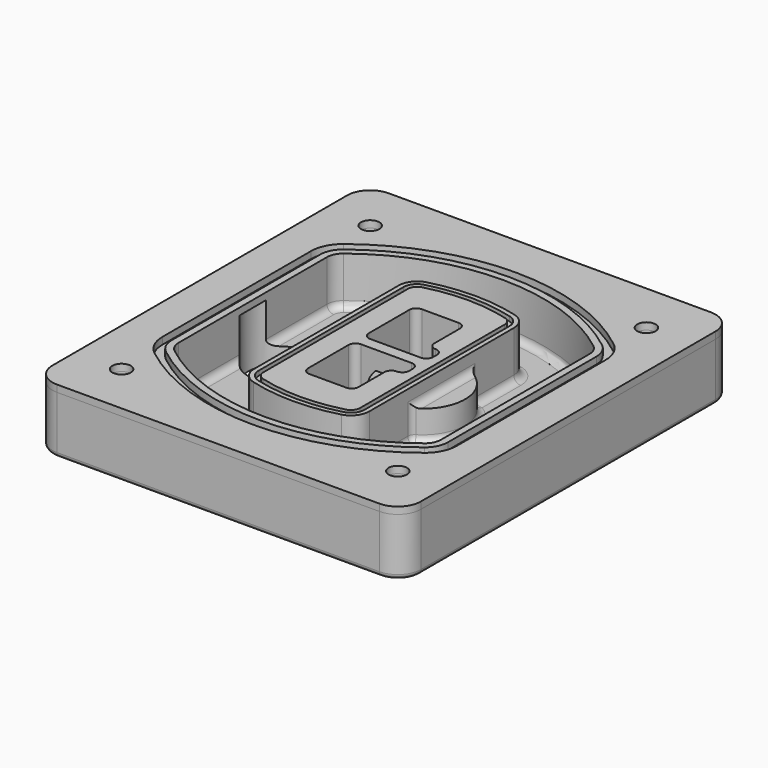
from build123d import *

# Parameters (mm, degrees)
F0_R      = 4
F1_DEPTH  = 25
F2_DEPTH  = 3
F3_DEPTH  = 18
F5_DEPTH  = 21
F6_DEPTH  = 2
F8_DEPTH  = 20
F9_DEPTH  = 16
F10_DEPTH = 25
F7_R      = 6
F7_R_2    = 4
F11_DEPTH = 6
F13_DEPTH = 9
F14_R     = 3
F15_R     = 2
F16_R     = 4
F16_R_2   = 6
F17_DEPTH = 3


with BuildPart() as f1:
    # F0 (on Top) → F1 (new body)
    with BuildSketch(Plane.XY):
        with BuildLine():
            ThreePointArc((-80, -80), (-77.0710678119, -87.0710678119), (-70, -90))
            Line((-70, -90), (70, -90))
            ThreePointArc((70, -90), (77.0710678119, -87.0710678119), (80, -80))
            Line((80, -80), (80, 80))
            ThreePointArc((80, 80), (77.0710678119, 87.0710678119), (70, 90))
            Line((70, 90), (-70, 90))
            ThreePointArc((-70, 90), (-77.0710678119, 87.0710678119), (-80, 80))
            Line((-80, 80), (-80, -80))
        make_face()
        with Locations((-60, -67.5)):
            Circle(F0_R, mode=Mode.SUBTRACT)
        with Locations((60, -67.5)):
            Circle(F0_R, mode=Mode.SUBTRACT)
        with Locations((-60, 67.5)):
            Circle(F0_R, mode=Mode.SUBTRACT)
        with BuildLine():
            ThreePointArc((-64, 40.2934422872), (-62.5820384798, 46.4328484224), (-58.6153846154, 51.3286200352))
            ThreePointArc((-58.6153846154, 51.3286200352), (0, 71.5), (58.6153846154, 51.3286200352))
            ThreePointArc((58.6153846154, 51.3286200352), (62.5820384798, 46.4328484224), (64, 40.2934422872))
            Line((64, 40.2934422872), (64, -40.2934422872))
            ThreePointArc((64, -40.2934422872), (62.5820384798, -46.4328484224), (58.6153846154, -51.3286200352))
            ThreePointArc((58.6153846154, -51.3286200352), (0, -71.5), (-58.6153846154, -51.3286200352))
            ThreePointArc((-58.6153846154, -51.3286200352), (-62.5820384798, -46.4328484224), (-64, -40.2934422872))
            Line((-64, -40.2934422872), (-64, 40.2934422872))
        make_face(mode=Mode.SUBTRACT)
        with Locations((60, 67.5)):
            Circle(F0_R, mode=Mode.SUBTRACT)
        with BuildLine():
            ThreePointArc((58.6153846154, 51.3286200352), (0, 71.5), (-58.6153846154, 51.3286200352))
            ThreePointArc((-58.6153846154, 51.3286200352), (-62.5820384798, 46.4328484224), (-64, 40.2934422872))
            Line((-64, 40.2934422872), (-64, -40.2934422872))
            ThreePointArc((-64, -40.2934422872), (-62.5820384798, -46.4328484224), (-58.6153846154, -51.3286200352))
            ThreePointArc((-58.6153846154, -51.3286200352), (0, -71.5), (58.6153846154, -51.3286200352))
            ThreePointArc((58.6153846154, -51.3286200352), (62.5820384798, -46.4328484224), (64, -40.2934422872))
            Line((64, -40.2934422872), (64, 40.2934422872))
            ThreePointArc((64, 40.2934422872), (62.5820384798, 46.4328484224), (58.6153846154, 51.3286200352))
        make_face()
        with BuildLine():
            Line((-60, -40.2934422872), (-60, 40.2934422872))
            ThreePointArc((-60, 40.2934422872), (-58.9871703427, 44.6787323838), (-56.1538461538, 48.1757121072))
            ThreePointArc((-56.1538461538, 48.1757121072), (0, 67.5), (56.1538461538, 48.1757121072))
            ThreePointArc((56.1538461538, 48.1757121072), (58.9871703427, 44.6787323838), (60, 40.2934422872))
            Line((60, 40.2934422872), (60, -40.2934422872))
            ThreePointArc((60, -40.2934422872), (58.9871703427, -44.6787323838), (56.1538461538, -48.1757121072))
            ThreePointArc((56.1538461538, -48.1757121072), (0, -67.5), (-56.1538461538, -48.1757121072))
            ThreePointArc((-56.1538461538, -48.1757121072), (-58.9871703427, -44.6787323838), (-60, -40.2934422872))
        make_face(mode=Mode.SUBTRACT)
        with BuildLine():
            ThreePointArc((-56.1538461538, 48.1757121072), (-58.9871703427, 44.6787323838), (-60, 40.2934422872))
            Line((-60, 40.2934422872), (-60, -40.2934422872))
            ThreePointArc((-60, -40.2934422872), (-58.9871703427, -44.6787323838), (-56.1538461538, -48.1757121072))
            ThreePointArc((-56.1538461538, -48.1757121072), (0, -67.5), (56.1538461538, -48.1757121072))
            ThreePointArc((56.1538461538, -48.1757121072), (58.9871703427, -44.6787323838), (60, -40.2934422872))
            Line((60, -40.2934422872), (60, 40.2934422872))
            ThreePointArc((60, 40.2934422872), (58.9871703427, 44.6787323838), (56.1538461538, 48.1757121072))
            ThreePointArc((56.1538461538, 48.1757121072), (0, 67.5), (-56.1538461538, 48.1757121072))
        make_face()
        with BuildLine():
            ThreePointArc((54.3076923077, 45.8110311612), (56.2910192399, 43.3631453548), (57, 40.2934422872))
            Line((57, 40.2934422872), (57, -40.2934422872))
            ThreePointArc((57, -40.2934422872), (56.2910192399, -43.3631453548), (54.3076923077, -45.8110311612))
            ThreePointArc((54.3076923077, -45.8110311612), (0, -64.5), (-54.3076923077, -45.8110311612))
            ThreePointArc((-54.3076923077, -45.8110311612), (-56.2910192399, -43.3631453548), (-57, -40.2934422872))
            Line((-57, -40.2934422872), (-57, 40.2934422872))
            ThreePointArc((-57, 40.2934422872), (-56.2910192399, 43.3631453548), (-54.3076923077, 45.8110311612))
            ThreePointArc((-54.3076923077, 45.8110311612), (0, 64.5), (54.3076923077, 45.8110311612))
        make_face(mode=Mode.SUBTRACT)
        with BuildLine():
            Line((57, -40.2934422872), (57, 40.2934422872))
            ThreePointArc((57, 40.2934422872), (56.2910192399, 43.3631453548), (54.3076923077, 45.8110311612))
            ThreePointArc((54.3076923077, 45.8110311612), (0, 64.5), (-54.3076923077, 45.8110311612))
            ThreePointArc((-54.3076923077, 45.8110311612), (-56.2910192399, 43.3631453548), (-57, 40.2934422872))
            Line((-57, 40.2934422872), (-57, -40.2934422872))
            ThreePointArc((-57, -40.2934422872), (-56.2910192399, -43.3631453548), (-54.3076923077, -45.8110311612))
            ThreePointArc((-54.3076923077, -45.8110311612), (0, -64.5), (54.3076923077, -45.8110311612))
            ThreePointArc((54.3076923077, -45.8110311612), (56.2910192399, -43.3631453548), (57, -40.2934422872))
        make_face()
    extrude(amount=-F1_DEPTH)

    # F0 (on Top) → F2 (join)
    with BuildSketch(Plane.XY):
        with BuildLine():
            ThreePointArc((-56.1538461538, 48.1757121072), (-58.9871703427, 44.6787323838), (-60, 40.2934422872))
            Line((-60, 40.2934422872), (-60, -40.2934422872))
            ThreePointArc((-60, -40.2934422872), (-58.9871703427, -44.6787323838), (-56.1538461538, -48.1757121072))
            ThreePointArc((-56.1538461538, -48.1757121072), (0, -67.5), (56.1538461538, -48.1757121072))
            ThreePointArc((56.1538461538, -48.1757121072), (58.9871703427, -44.6787323838), (60, -40.2934422872))
            Line((60, -40.2934422872), (60, 40.2934422872))
            ThreePointArc((60, 40.2934422872), (58.9871703427, 44.6787323838), (56.1538461538, 48.1757121072))
            ThreePointArc((56.1538461538, 48.1757121072), (0, 67.5), (-56.1538461538, 48.1757121072))
        make_face()
        with BuildLine():
            ThreePointArc((54.3076923077, 45.8110311612), (56.2910192399, 43.3631453548), (57, 40.2934422872))
            Line((57, 40.2934422872), (57, -40.2934422872))
            ThreePointArc((57, -40.2934422872), (56.2910192399, -43.3631453548), (54.3076923077, -45.8110311612))
            ThreePointArc((54.3076923077, -45.8110311612), (0, -64.5), (-54.3076923077, -45.8110311612))
            ThreePointArc((-54.3076923077, -45.8110311612), (-56.2910192399, -43.3631453548), (-57, -40.2934422872))
            Line((-57, -40.2934422872), (-57, 40.2934422872))
            ThreePointArc((-57, 40.2934422872), (-56.2910192399, 43.3631453548), (-54.3076923077, 45.8110311612))
            ThreePointArc((-54.3076923077, 45.8110311612), (0, 64.5), (54.3076923077, 45.8110311612))
        make_face(mode=Mode.SUBTRACT)
    extrude(amount=F2_DEPTH)

    # F0 (on Top) → F3 (cut)
    with BuildSketch(Plane.XY):
        with BuildLine():
            Line((57, -40.2934422872), (57, 40.2934422872))
            ThreePointArc((57, 40.2934422872), (56.2910192399, 43.3631453548), (54.3076923077, 45.8110311612))
            ThreePointArc((54.3076923077, 45.8110311612), (0, 64.5), (-54.3076923077, 45.8110311612))
            ThreePointArc((-54.3076923077, 45.8110311612), (-56.2910192399, 43.3631453548), (-57, 40.2934422872))
            Line((-57, 40.2934422872), (-57, -40.2934422872))
            ThreePointArc((-57, -40.2934422872), (-56.2910192399, -43.3631453548), (-54.3076923077, -45.8110311612))
            ThreePointArc((-54.3076923077, -45.8110311612), (0, -64.5), (54.3076923077, -45.8110311612))
            ThreePointArc((54.3076923077, -45.8110311612), (56.2910192399, -43.3631453548), (57, -40.2934422872))
        make_face()
    extrude(amount=-F3_DEPTH, mode=Mode.SUBTRACT)

    # F4 (on face) → F5 (join, through all)
    with BuildSketch(Plane.XY.offset(3)):
        with BuildLine():
            ThreePointArc((-25, -39.2465276821), (-23.3511545998, -44.1109737193), (-19.0842911877, -46.9702398883))
            ThreePointArc((-19.0842911877, -46.9702398883), (0, -49.5), (19.0842911877, -46.9702398883))
            ThreePointArc((19.0842911877, -46.9702398883), (23.3511545998, -44.1109737193), (25, -39.2465276821))
            Line((25, -39.2465276821), (25, 39.2465276821))
            ThreePointArc((25, 39.2465276821), (23.3511545998, 44.1109737193), (19.0842911877, 46.9702398883))
            ThreePointArc((19.0842911877, 46.9702398883), (0, 49.5), (-19.0842911877, 46.9702398883))
            ThreePointArc((-19.0842911877, 46.9702398883), (-23.3511545998, 44.1109737193), (-25, 39.2465276821))
            Line((-25, 39.2465276821), (-25, -39.2465276821))
        make_face()
        with BuildLine():
            ThreePointArc((18.5632183908, 45.0393118368), (21.7633659499, 42.89486221), (23, 39.2465276821))
            Line((23, 39.2465276821), (23, -39.2465276821))
            ThreePointArc((23, -39.2465276821), (21.7633659499, -42.89486221), (18.5632183908, -45.0393118368))
            ThreePointArc((18.5632183908, -45.0393118368), (0, -47.5), (-18.5632183908, -45.0393118368))
            ThreePointArc((-18.5632183908, -45.0393118368), (-21.7633659499, -42.89486221), (-23, -39.2465276821))
            Line((-23, -39.2465276821), (-23, 39.2465276821))
            ThreePointArc((-23, 39.2465276821), (-21.7633659499, 42.89486221), (-18.5632183908, 45.0393118368))
            ThreePointArc((-18.5632183908, 45.0393118368), (0, 47.5), (18.5632183908, 45.0393118368))
        make_face(mode=Mode.SUBTRACT)
        with BuildLine():
            Line((23, -39.2465276821), (23, 39.2465276821))
            ThreePointArc((23, 39.2465276821), (21.7633659499, 42.89486221), (18.5632183908, 45.0393118368))
            ThreePointArc((18.5632183908, 45.0393118368), (0, 47.5), (-18.5632183908, 45.0393118368))
            ThreePointArc((-18.5632183908, 45.0393118368), (-21.7633659499, 42.89486221), (-23, 39.2465276821))
            Line((-23, 39.2465276821), (-23, -39.2465276821))
            ThreePointArc((-23, -39.2465276821), (-21.7633659499, -42.89486221), (-18.5632183908, -45.0393118368))
            ThreePointArc((-18.5632183908, -45.0393118368), (0, -47.5), (18.5632183908, -45.0393118368))
            ThreePointArc((18.5632183908, -45.0393118368), (21.7633659499, -42.89486221), (23, -39.2465276821))
        make_face()
        with BuildLine():
            ThreePointArc((18.0421455939, 43.1083837852), (20.1755772999, 41.6787507007), (21, 39.2465276821))
            Line((21, 39.2465276821), (21, -39.2465276821))
            ThreePointArc((21, -39.2465276821), (20.1755772999, -41.6787507007), (18.0421455939, -43.1083837852))
            ThreePointArc((18.0421455939, -43.1083837852), (0, -45.5), (-18.0421455939, -43.1083837852))
            ThreePointArc((-18.0421455939, -43.1083837852), (-20.1755772999, -41.6787507007), (-21, -39.2465276821))
            Line((-21, -39.2465276821), (-21, 39.2465276821))
            ThreePointArc((-21, 39.2465276821), (-20.1755772999, 41.6787507007), (-18.0421455939, 43.1083837852))
            ThreePointArc((-18.0421455939, 43.1083837852), (0, 45.5), (18.0421455939, 43.1083837852))
        make_face(mode=Mode.SUBTRACT)
        with BuildLine():
            Line((21, -39.2465276821), (21, 39.2465276821))
            ThreePointArc((21, 39.2465276821), (20.1755772999, 41.6787507007), (18.0421455939, 43.1083837852))
            ThreePointArc((18.0421455939, 43.1083837852), (0, 45.5), (-18.0421455939, 43.1083837852))
            ThreePointArc((-18.0421455939, 43.1083837852), (-20.1755772999, 41.6787507007), (-21, 39.2465276821))
            Line((-21, 39.2465276821), (-21, -39.2465276821))
            ThreePointArc((-21, -39.2465276821), (-20.1755772999, -41.6787507007), (-18.0421455939, -43.1083837852))
            ThreePointArc((-18.0421455939, -43.1083837852), (0, -45.5), (18.0421455939, -43.1083837852))
            ThreePointArc((18.0421455939, -43.1083837852), (20.1755772999, -41.6787507007), (21, -39.2465276821))
        make_face()
        with BuildLine():
            Line((-8, -2.5), (14, -2.5))
            ThreePointArc((14, -2.5), (16.1213203436, -3.3786796564), (17, -5.5))
            Line((17, -5.5), (17, -7.5))
            ThreePointArc((17, -7.5), (16.1213203436, -9.6213203436), (14, -10.5))
            ThreePointArc((14, -10.5), (11.8786796564, -11.3786796564), (11, -13.5))
            Line((11, -13.5), (11, -27.5))
            ThreePointArc((11, -27.5), (10.1213203436, -29.6213203436), (8, -30.5))
            Line((8, -30.5), (-8, -30.5))
            ThreePointArc((-8, -30.5), (-10.1213203436, -29.6213203436), (-11, -27.5))
            Line((-11, -27.5), (-11, -5.5))
            ThreePointArc((-11, -5.5), (-10.1213203436, -3.3786796564), (-8, -2.5))
        make_face(mode=Mode.SUBTRACT)
        with BuildLine():
            ThreePointArc((-8, 2.5), (-10.1213203436, 3.3786796564), (-11, 5.5))
            Line((-11, 5.5), (-11, 27.5))
            ThreePointArc((-11, 27.5), (-10.1213203436, 29.6213203436), (-8, 30.5))
            Line((-8, 30.5), (8, 30.5))
            ThreePointArc((8, 30.5), (10.1213203436, 29.6213203436), (11, 27.5))
            Line((11, 27.5), (11, 13.5))
            ThreePointArc((11, 13.5), (11.8786796564, 11.3786796564), (14, 10.5))
            ThreePointArc((14, 10.5), (16.1213203436, 9.6213203436), (17, 7.5))
            Line((17, 7.5), (17, 5.5))
            ThreePointArc((17, 5.5), (16.1213203436, 3.3786796564), (14, 2.5))
            Line((14, 2.5), (-8, 2.5))
        make_face(mode=Mode.SUBTRACT)
    extrude(amount=-F5_DEPTH)

    # F4 (on face) → F6 (cut)
    with BuildSketch(Plane.XY.offset(3)):
        with BuildLine():
            Line((23, -39.2465276821), (23, 39.2465276821))
            ThreePointArc((23, 39.2465276821), (21.7633659499, 42.89486221), (18.5632183908, 45.0393118368))
            ThreePointArc((18.5632183908, 45.0393118368), (0, 47.5), (-18.5632183908, 45.0393118368))
            ThreePointArc((-18.5632183908, 45.0393118368), (-21.7633659499, 42.89486221), (-23, 39.2465276821))
            Line((-23, 39.2465276821), (-23, -39.2465276821))
            ThreePointArc((-23, -39.2465276821), (-21.7633659499, -42.89486221), (-18.5632183908, -45.0393118368))
            ThreePointArc((-18.5632183908, -45.0393118368), (0, -47.5), (18.5632183908, -45.0393118368))
            ThreePointArc((18.5632183908, -45.0393118368), (21.7633659499, -42.89486221), (23, -39.2465276821))
        make_face()
        with BuildLine():
            ThreePointArc((18.0421455939, 43.1083837852), (20.1755772999, 41.6787507007), (21, 39.2465276821))
            Line((21, 39.2465276821), (21, -39.2465276821))
            ThreePointArc((21, -39.2465276821), (20.1755772999, -41.6787507007), (18.0421455939, -43.1083837852))
            ThreePointArc((18.0421455939, -43.1083837852), (0, -45.5), (-18.0421455939, -43.1083837852))
            ThreePointArc((-18.0421455939, -43.1083837852), (-20.1755772999, -41.6787507007), (-21, -39.2465276821))
            Line((-21, -39.2465276821), (-21, 39.2465276821))
            ThreePointArc((-21, 39.2465276821), (-20.1755772999, 41.6787507007), (-18.0421455939, 43.1083837852))
            ThreePointArc((-18.0421455939, 43.1083837852), (0, 45.5), (18.0421455939, 43.1083837852))
        make_face(mode=Mode.SUBTRACT)
    extrude(amount=-F6_DEPTH, mode=Mode.SUBTRACT)

    # F7 (on face) → F8 (join)
    with BuildSketch(Plane(origin=(0, 0, -25), x_dir=(1, 0, 0), z_dir=(0, 0, -1))):
        with BuildLine():
            ThreePointArc((3.28842436, 0), (16.7567035675, 13.4682792075), (30.224982775, 0))
            Line((30.224982775, 0), (35.224982775, 0))
            ThreePointArc((35.224982775, 0), (16.7567035675, 18.4682792075), (-1.71157564, 0))
            Line((-1.71157564, 0), (3.28842436, 0))
        make_face()
        with BuildLine():
            Line((3.28842436, 0), (30.224982775, 0))
            ThreePointArc((30.224982775, 0), (16.7567035675, 13.4682792075), (3.28842436, 0))
        make_face()
        with BuildLine():
            ThreePointArc((3.28842436, 0), (16.7567035675, -13.4682792075), (30.224982775, 0))
            Line((30.224982775, 0), (3.28842436, 0))
        make_face()
        with BuildLine():
            Line((35.224982775, 0), (30.224982775, 0))
            ThreePointArc((30.224982775, 0), (16.7567035675, -13.4682792075), (3.28842436, 0))
            Line((3.28842436, 0), (-1.71157564, 0))
            ThreePointArc((-1.71157564, 0), (16.7567035675, -18.4682792075), (35.224982775, 0))
        make_face()
    extrude(amount=-F8_DEPTH)

    # F7 (on face) → F9 (cut)
    with BuildSketch(Plane(origin=(0, 0, -25), x_dir=(1, 0, 0), z_dir=(0, 0, -1))):
        with BuildLine():
            Line((3.28842436, 0), (30.224982775, 0))
            ThreePointArc((30.224982775, 0), (16.7567035675, 13.4682792075), (3.28842436, 0))
        make_face()
        with BuildLine():
            ThreePointArc((3.28842436, 0), (16.7567035675, -13.4682792075), (30.224982775, 0))
            Line((30.224982775, 0), (3.28842436, 0))
        make_face()
    extrude(amount=-F9_DEPTH, mode=Mode.SUBTRACT)

    # F7 (on face) → F10 (cut)
    with BuildSketch(Plane(origin=(0, 0, -25), x_dir=(1, 0, 0), z_dir=(0, 0, -1))):
        with BuildLine():
            Line((-59.0318229325, 0), (-32.0952645175, 0))
            ThreePointArc((-32.0952645175, 0), (-45.563543725, 13.4682792075), (-59.0318229325, 0))
        make_face()
        with BuildLine():
            ThreePointArc((-59.0318229325, 0), (-45.563543725, -13.4682792075), (-32.0952645175, 0))
            Line((-32.0952645175, 0), (-59.0318229325, 0))
        make_face()
    extrude(amount=-F10_DEPTH, mode=Mode.SUBTRACT)

    # F7 (on face) → F11 (cut)
    with BuildSketch(Plane(origin=(0, 0, -25), x_dir=(1, 0, 0), z_dir=(0, 0, -1))):
        with Locations((60, -67.5)):
            Circle(F7_R)
        with Locations((60, -67.5)):
            Circle(F7_R_2, mode=Mode.SUBTRACT)
        with Locations((60, -67.5)):
            Circle(F7_R)
        with Locations((60, -67.5)):
            Circle(F7_R_2, mode=Mode.SUBTRACT)
        with Locations((-60, -67.5)):
            Circle(F7_R)
        with Locations((-60, -67.5)):
            Circle(F7_R_2, mode=Mode.SUBTRACT)
        with Locations((-60, -67.5)):
            Circle(F7_R)
        with Locations((-60, -67.5)):
            Circle(F7_R_2, mode=Mode.SUBTRACT)
        with Locations((-60, 67.5)):
            Circle(F7_R)
        with Locations((-60, 67.5)):
            Circle(F7_R_2, mode=Mode.SUBTRACT)
        with Locations((-60, 67.5)):
            Circle(F7_R)
        with Locations((-60, 67.5)):
            Circle(F7_R_2, mode=Mode.SUBTRACT)
        with Locations((60, 67.5)):
            Circle(F7_R)
        with Locations((60, 67.5)):
            Circle(F7_R_2, mode=Mode.SUBTRACT)
        with Locations((60, 67.5)):
            Circle(F7_R)
        with Locations((60, 67.5)):
            Circle(F7_R_2, mode=Mode.SUBTRACT)
    extrude(amount=-F11_DEPTH, mode=Mode.SUBTRACT)

    # F12 (on face) → F13 (cut, through all)
    with BuildSketch(Plane(origin=(0, 0, -9), x_dir=(1, 0, 0), z_dir=(0, 0, -1))):
        with BuildLine():
            Line((11, 13.5), (11, 17.5481537753))
            ThreePointArc((11, 17.5481537753), (2.5696536419, 11.8239143813), (-1.5415842455, 2.5))
            Line((-1.5415842455, 2.5), (3.5224848595, 2.5))
            ThreePointArc((3.5224848595, 2.5), (6.1857188154, 8.3455872281), (11.2536447004, 12.2927168648))
            ThreePointArc((11.2536447004, 12.2927168648), (11.0640958889, 12.8831798879), (11, 13.5))
        make_face()
        with BuildLine():
            ThreePointArc((11.2536447004, -12.2927168648), (6.1857188154, -8.3455872281), (3.5224848595, -2.5))
            Line((3.5224848595, -2.5), (-1.5415842455, -2.5))
            ThreePointArc((-1.5415842455, -2.5), (2.5696536419, -11.8239143813), (11, -17.5481537753))
            Line((11, -17.5481537753), (11, -13.5))
            ThreePointArc((11, -13.5), (11.0640958889, -12.8831798879), (11.2536447004, -12.2927168648))
        make_face()
        with BuildLine():
            ThreePointArc((11.2536447004, 12.2927168648), (6.1857188154, 8.3455872281), (3.5224848595, 2.5))
            Line((3.5224848595, 2.5), (14, 2.5))
            ThreePointArc((14, 2.5), (16.1213203436, 3.3786796564), (17, 5.5))
            Line((17, 5.5), (17, 7.5))
            ThreePointArc((17, 7.5), (16.1213203436, 9.6213203436), (14, 10.5))
            ThreePointArc((14, 10.5), (12.3601599782, 10.9878446101), (11.2536447004, 12.2927168648))
        make_face()
        with BuildLine():
            Line((14, -2.5), (3.5224848595, -2.5))
            ThreePointArc((3.5224848595, -2.5), (6.1857188154, -8.3455872281), (11.2536447004, -12.2927168648))
            ThreePointArc((11.2536447004, -12.2927168648), (12.3601599782, -10.9878446101), (14, -10.5))
            ThreePointArc((14, -10.5), (16.1213203436, -9.6213203436), (17, -7.5))
            Line((17, -7.5), (17, -5.5))
            ThreePointArc((17, -5.5), (16.1213203436, -3.3786796564), (14, -2.5))
        make_face()
    extrude(amount=F13_DEPTH, mode=Mode.SUBTRACT)

    # F14
    f14_edges = [f1.edges().sort_by_distance(p)[0] for p in [
        (-57, -23.703476, -18),
        (-57, 23.703476, -18),
        (25, 0, -5),
        (25, 16.526506, -11.5),
        (25, -16.526506, -11.5),
        (25, -27.886517, -18),
        (35.224983, 0, -18),
    ]]
    fillet(f14_edges, radius=F14_R)

    # F15
    f15_edges = [f1.edges().sort_by_distance(p)[0] for p in [
        (0, -90, -25),
    ]]
    fillet(f15_edges, radius=F15_R)


with BuildPart() as f17:
    # F16 (on face) → F17 (new body, through all)
    with BuildSketch(Plane.XY):
        with BuildLine():
            Line((-33, 90), (-70, 90))
            ThreePointArc((-70, 90), (-77.0710678119, 87.0710678119), (-80, 80))
            Line((-80, 80), (-80, -80))
            ThreePointArc((-80, -80), (-77.0710678119, -87.0710678119), (-70, -90))
            Line((-70, -90), (-33, -90))
            Line((-33, -90), (33, -90))
            Line((33, -90), (70, -90))
            ThreePointArc((70, -90), (77.0710678119, -87.0710678119), (80, -80))
            Line((80, -80), (80, 80))
            ThreePointArc((80, 80), (77.0710678119, 87.0710678119), (70, 90))
            Line((70, 90), (33, 90))
            Line((33, 90), (-33, 90))
        make_face()
        with Locations((-60, -67.5)):
            Circle(F16_R, mode=Mode.SUBTRACT)
        with Locations((60, -67.5)):
            Circle(F16_R, mode=Mode.SUBTRACT)
        with Locations((-60, 67.5)):
            Circle(F16_R, mode=Mode.SUBTRACT)
        with BuildLine():
            ThreePointArc((-56.1538461538, 48.1757121072), (0, 67.5), (56.1538461538, 48.1757121072))
            ThreePointArc((56.1538461538, 48.1757121072), (58.9871703427, 44.6787323838), (60, 40.2934422872))
            Line((60, 40.2934422872), (60, -40.2934422872))
            ThreePointArc((60, -40.2934422872), (58.9871703427, -44.6787323838), (56.1538461538, -48.1757121072))
            ThreePointArc((56.1538461538, -48.1757121072), (0, -67.5), (-56.1538461538, -48.1757121072))
            ThreePointArc((-56.1538461538, -48.1757121072), (-58.9871703427, -44.6787323838), (-60, -40.2934422872))
            Line((-60, -40.2934422872), (-60, 40.2934422872))
            ThreePointArc((-60, 40.2934422872), (-58.9871703427, 44.6787323838), (-56.1538461538, 48.1757121072))
        make_face(mode=Mode.SUBTRACT)
        with Locations((60, 67.5)):
            Circle(F16_R, mode=Mode.SUBTRACT)
        with BuildLine():
            Line((-15, 108), (-33, 90))
            Line((-33, 90), (33, 90))
            Line((33, 90), (15, 108))
            Line((15, 108), (15, 120))
            ThreePointArc((15, 120), (0, 135), (-15, 120))
            Line((-15, 120), (-15, 108))
        make_face()
        with Locations((0, 120)):
            Circle(F16_R_2, mode=Mode.SUBTRACT)
        with BuildLine():
            Line((33, -90), (-33, -90))
            Line((-33, -90), (-15, -108))
            Line((-15, -108), (-15, -120))
            ThreePointArc((-15, -120), (0, -135), (15, -120))
            Line((15, -120), (15, -108))
            Line((15, -108), (33, -90))
        make_face()
        with Locations((0, -120)):
            Circle(F16_R_2, mode=Mode.SUBTRACT)
    extrude(amount=F17_DEPTH)


with BuildPart() as f17b:
    # F0 (on Top) → F17, piece 2 (new body, through all)
    with BuildSketch(Plane.XY):
        with BuildLine():
            ThreePointArc((-80, -80), (-77.0710678119, -87.0710678119), (-70, -90))
            Line((-70, -90), (70, -90))
            ThreePointArc((70, -90), (77.0710678119, -87.0710678119), (80, -80))
            Line((80, -80), (80, 80))
            ThreePointArc((80, 80), (77.0710678119, 87.0710678119), (70, 90))
            Line((70, 90), (-70, 90))
            ThreePointArc((-70, 90), (-77.0710678119, 87.0710678119), (-80, 80))
            Line((-80, 80), (-80, -80))
        make_face()
        with Locations((-60, -67.5)):
            Circle(F0_R, mode=Mode.SUBTRACT)
        with Locations((60, -67.5)):
            Circle(F0_R, mode=Mode.SUBTRACT)
        with Locations((-60, 67.5)):
            Circle(F0_R, mode=Mode.SUBTRACT)
        with BuildLine():
            ThreePointArc((-64, 40.2934422872), (-62.5820384798, 46.4328484224), (-58.6153846154, 51.3286200352))
            ThreePointArc((-58.6153846154, 51.3286200352), (0, 71.5), (58.6153846154, 51.3286200352))
            ThreePointArc((58.6153846154, 51.3286200352), (62.5820384798, 46.4328484224), (64, 40.2934422872))
            Line((64, 40.2934422872), (64, -40.2934422872))
            ThreePointArc((64, -40.2934422872), (62.5820384798, -46.4328484224), (58.6153846154, -51.3286200352))
            ThreePointArc((58.6153846154, -51.3286200352), (0, -71.5), (-58.6153846154, -51.3286200352))
            ThreePointArc((-58.6153846154, -51.3286200352), (-62.5820384798, -46.4328484224), (-64, -40.2934422872))
            Line((-64, -40.2934422872), (-64, 40.2934422872))
        make_face(mode=Mode.SUBTRACT)
        with Locations((60, 67.5)):
            Circle(F0_R, mode=Mode.SUBTRACT)
    extrude(amount=F17_DEPTH)


solid = Compound([f1.part, f17b.part])
